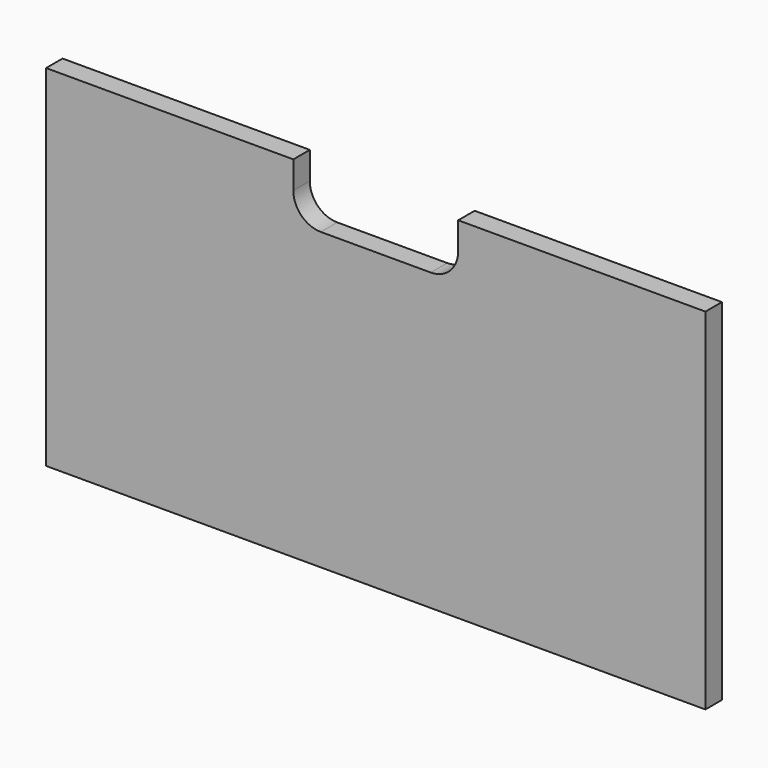
from build123d import *

# Parameters (mm, degrees)
F1_DEPTH = 19.05


with BuildPart() as f1:
    # F0 (on Front) → F1 (new body)
    with BuildSketch(Plane.XZ):
        with BuildLine():
            Line((-76.2, 161.925), (-304.8, 161.925))
            Line((-304.8, 161.925), (-304.8, -161.925))
            Line((-304.8, -161.925), (304.8, -161.925))
            Line((304.8, -161.925), (304.8, 161.925))
            Line((304.8, 161.925), (76.2, 161.925))
            Line((76.2, 161.925), (76.2, 136.525))
            ThreePointArc((76.2, 136.525), (68.760512, 118.564488), (50.8, 111.125))
            Line((50.8, 111.125), (-50.8, 111.125))
            ThreePointArc((-50.8, 111.125), (-68.760512, 118.564488), (-76.2, 136.525))
            Line((-76.2, 136.525), (-76.2, 161.925))
        make_face()
    extrude(amount=F1_DEPTH)


solid = f1.part
